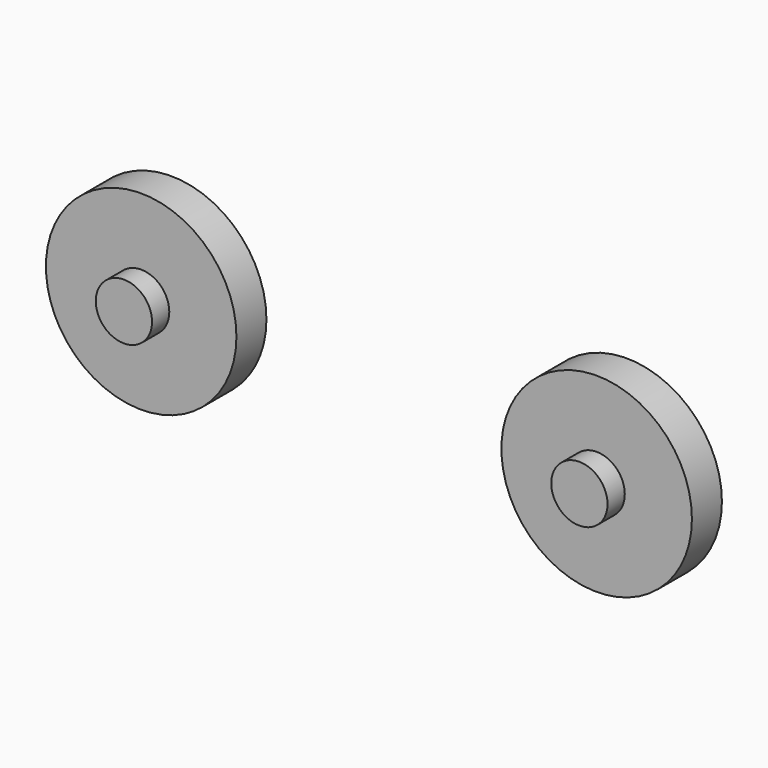
from build123d import *

# Parameters (mm, degrees)
F0_R     = 5.08
F1_DEPTH = 2
F3_R     = 1.499997
F2_R     = 1.499997
F4_DEPTH = 1.15


with BuildPart() as f1:
    # F0 (on Front) → F1 (new body)
    with BuildSketch(Plane.XZ):
        with Locations((-31.022297, 53.91805)):
            Circle(F0_R)
        with Locations((-55.310542, 54.574311)):
            Circle(F0_R)
    extrude(amount=-F1_DEPTH)


with BuildPart() as f4:
    # F3 (on face) + F2 (on face) → F4 (new body)
    with BuildSketch(Plane.XZ):
        with Locations((-31.022297, 53.91805)):
            Circle(F3_R)
    with BuildSketch(Plane.XZ):
        with Locations((-55.310542, 54.574311)):
            Circle(F2_R)
    extrude(amount=F4_DEPTH)


solid = Compound([f1.part, f4.part])
